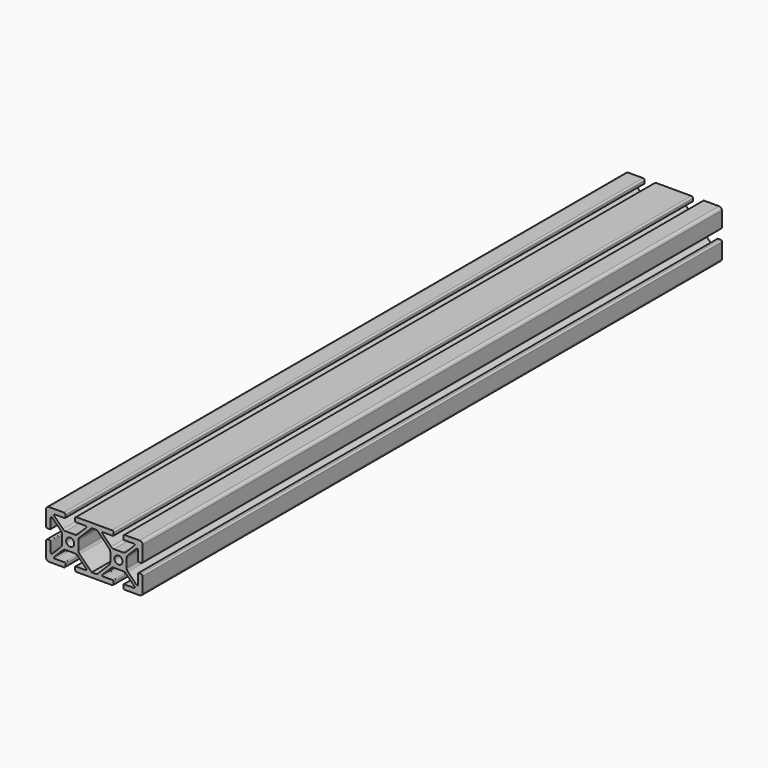
from build123d import *

# Parameters (mm, degrees)
F0_R     = 2.5
F1_DEPTH = 450


with BuildPart() as f1:
    # F0 (on Front) → F1 (new body)
    with BuildSketch(Plane.XZ):
        with BuildLine():
            ThreePointArc((-30, -13.2), (-29.472792, -14.472792), (-28.2, -15))
            Line((-28.2, -15), (-19, -15))
            ThreePointArc((-19, -15), (-18.292893, -14.707107), (-18, -14))
            Line((-18, -14), (-18, -12.6))
            ThreePointArc((-18, -12.6), (-18.146447, -12.246447), (-18.5, -12.1))
            Line((-18.5, -12.1), (-24.620101, -12.1))
            ThreePointArc((-24.620101, -12.1), (-25.082041, -11.791342), (-24.973654, -11.246447))
            Line((-24.973654, -11.246447), (-19.559441, -5.832233))
            ThreePointArc((-19.559441, -5.832233), (-18.748382, -5.290301), (-17.791674, -5.1))
            Line((-17.791674, -5.1), (-12.208326, -5.1))
            ThreePointArc((-12.208326, -5.1), (-11.251618, -5.290301), (-10.440559, -5.832233))
            Line((-10.440559, -5.832233), (-5.026346, -11.246447))
            ThreePointArc((-5.026346, -11.246447), (-4.917959, -11.791342), (-5.379899, -12.1))
            Line((-5.379899, -12.1), (-11.5, -12.1))
            ThreePointArc((-11.5, -12.1), (-11.853553, -12.246447), (-12, -12.6))
            Line((-12, -12.6), (-12, -14))
            ThreePointArc((-12, -14), (-11.707107, -14.707107), (-11, -15))
            Line((-11, -15), (0, -15))
            Line((0, -15), (0, -12.1))
            Line((0, -12.1), (-1.627208, -12.1))
            Line((-1.627208, -12.1), (-9.167767, -4.559441))
            ThreePointArc((-9.167767, -4.559441), (-9.709699, -3.748382), (-9.9, -2.791674))
            Line((-9.9, -2.791674), (-9.9, 2.791674))
            ThreePointArc((-9.9, 2.791674), (-9.709699, 3.748382), (-9.167767, 4.559441))
            Line((-9.167767, 4.559441), (-1.627208, 12.1))
            Line((-1.627208, 12.1), (0, 12.1))
            Line((0, 12.1), (0, 15))
            Line((0, 15), (-11, 15))
            ThreePointArc((-11, 15), (-11.707107, 14.707107), (-12, 14))
            Line((-12, 14), (-12, 12.6))
            ThreePointArc((-12, 12.6), (-11.853553, 12.246447), (-11.5, 12.1))
            Line((-11.5, 12.1), (-5.379899, 12.1))
            ThreePointArc((-5.379899, 12.1), (-4.917959, 11.791342), (-5.026346, 11.246447))
            Line((-5.026346, 11.246447), (-10.440559, 5.832233))
            ThreePointArc((-10.440559, 5.832233), (-11.251618, 5.290301), (-12.208326, 5.1))
            Line((-12.208326, 5.1), (-17.791674, 5.1))
            ThreePointArc((-17.791674, 5.1), (-18.748382, 5.290301), (-19.559441, 5.832233))
            Line((-19.559441, 5.832233), (-24.973654, 11.246447))
            ThreePointArc((-24.973654, 11.246447), (-25.082041, 11.791342), (-24.620101, 12.1))
            Line((-24.620101, 12.1), (-18.5, 12.1))
            ThreePointArc((-18.5, 12.1), (-18.146447, 12.246447), (-18, 12.6))
            Line((-18, 12.6), (-18, 14))
            ThreePointArc((-18, 14), (-18.292893, 14.707107), (-19, 15))
            Line((-19, 15), (-28.2, 15))
            ThreePointArc((-28.2, 15), (-29.472792, 14.472792), (-30, 13.2))
            Line((-30, 13.2), (-30, 4))
            ThreePointArc((-30, 4), (-29.707107, 3.292893), (-29, 3))
            Line((-29, 3), (-27.6, 3))
            ThreePointArc((-27.6, 3), (-27.246447, 3.146447), (-27.1, 3.5))
            Line((-27.1, 3.5), (-27.1, 9.620101))
            ThreePointArc((-27.1, 9.620101), (-26.791342, 10.082041), (-26.246447, 9.973654))
            Line((-26.246447, 9.973654), (-20.832233, 4.559441))
            ThreePointArc((-20.832233, 4.559441), (-20.290301, 3.748382), (-20.1, 2.791674))
            Line((-20.1, 2.791674), (-20.1, -2.791674))
            ThreePointArc((-20.1, -2.791674), (-20.290301, -3.748382), (-20.832233, -4.559441))
            Line((-20.832233, -4.559441), (-26.246447, -9.973654))
            ThreePointArc((-26.246447, -9.973654), (-26.791342, -10.082041), (-27.1, -9.620101))
            Line((-27.1, -9.620101), (-27.1, -3.5))
            ThreePointArc((-27.1, -3.5), (-27.246447, -3.146447), (-27.6, -3))
            Line((-27.6, -3), (-29, -3))
            ThreePointArc((-29, -3), (-29.707107, -3.292893), (-30, -4))
            Line((-30, -4), (-30, -13.2))
        make_face()
        with Locations((-15, 0)):
            Circle(F0_R, mode=Mode.SUBTRACT)
    extrude(amount=F1_DEPTH)

    # F2: F1 across plane


with BuildPart() as f1_1:
    add(f1.part)
    add(f1.part.mirror(Plane.YZ))


solid = f1_1.part
